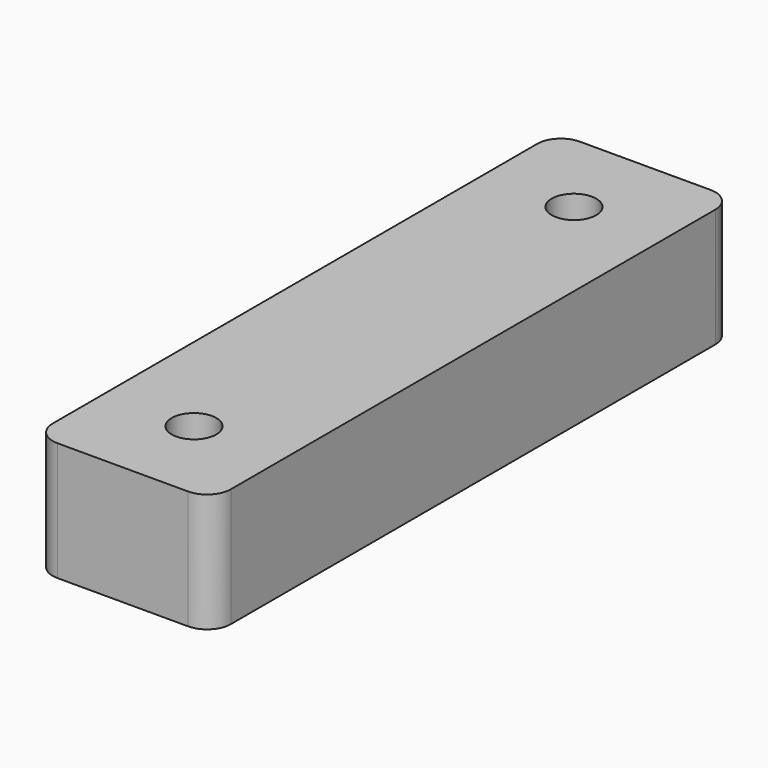
from build123d import *

# Parameters (mm, degrees)
F0_W     = 19.05
F0_H     = 69.85
F0_R     = 2.3876
F1_DEPTH = 12.7
F2_R     = 2.54


with BuildPart() as f1:
    # F0 (on Top) → F1 (new body)
    with BuildSketch(Plane.XY):
        Rectangle(F0_W, F0_H)
        with Locations((0, -25.4)):
            Circle(F0_R, mode=Mode.SUBTRACT)
        with Locations((0, 25.4)):
            Circle(F0_R, mode=Mode.SUBTRACT)
    extrude(amount=F1_DEPTH)

    # F2
    f2_edges = [f1.edges().sort_by_distance(p)[0] for p in [
        (9.525, -34.925, 6.35),
        (-9.525, -34.925, 6.35),
        (9.525, 34.925, 6.35),
        (-9.525, 34.925, 6.35),
    ]]
    fillet(f2_edges, radius=F2_R)


solid = f1.part
